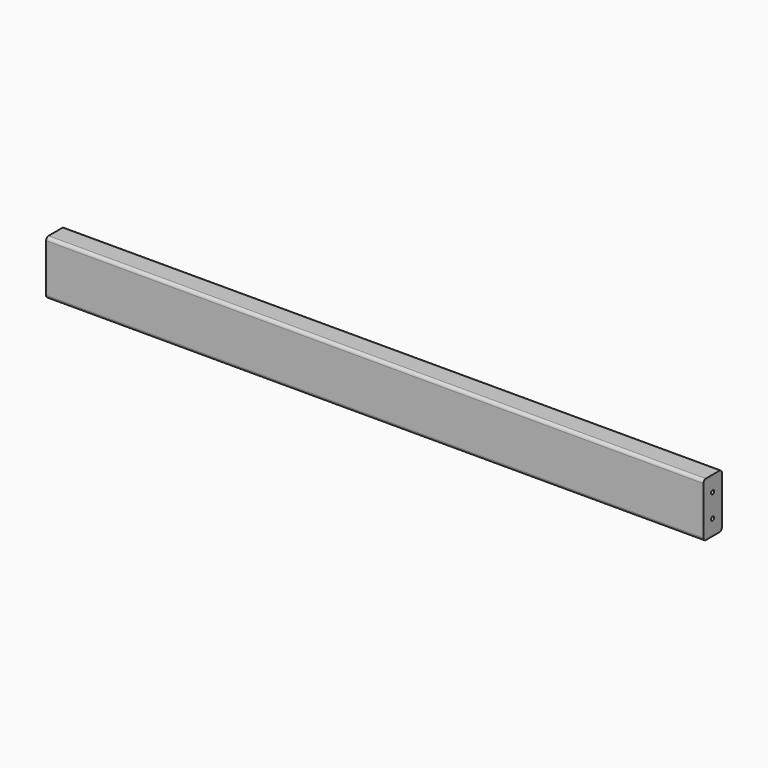
from build123d import *

# Parameters (mm, degrees)
F0_W     = 38.1
F0_H     = 88.9
F1_DEPTH = 539.75
F2_R     = 5.08
F4_D     = 6.35
F4_DEPTH = 25.4
F4_TIP   = 1.9077324654


with BuildPart() as f1:
    # F0 (on Right) → F1 (new body, symmetric)
    with BuildSketch(Plane.YZ):
        Rectangle(F0_W, F0_H)
    extrude(amount=F1_DEPTH, both=True)

    # F2
    f2_edges = [f1.edges().sort_by_distance(p)[0] for p in [
        (0, -19.05, 44.45),
        (0, 19.05, 44.45),
        (0, -19.05, -44.45),
        (0, 19.05, -44.45),
    ]]
    fillet(f2_edges, radius=F2_R)

    # F4
    with Locations(Plane.YZ.offset(539.75)):
        with Locations((0, 19.05), (0, -19.05)):
            Hole(F4_D / 2, depth=F4_DEPTH)
            with Locations((0, 0, -(F4_DEPTH + F4_TIP / 2))):  # 118° drill point
                Cone(0, F4_D / 2, F4_TIP, mode=Mode.SUBTRACT)


solid = f1.part
